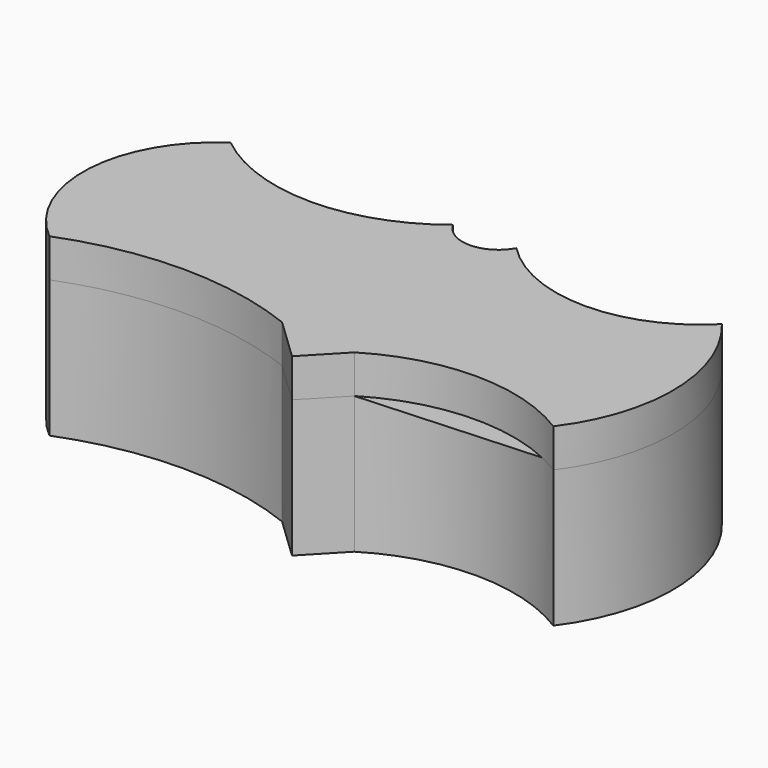
from build123d import *

# Parameters (mm, degrees)
F1_DEPTH = 25
F2_DEPTH = 7


with BuildPart() as f1:
    # F0 (on Top) → F1 (new body)
    with BuildSketch(Plane.XY):
        with BuildLine():
            ThreePointArc((6.184438, -19.112532), (24.385921, -13.995086), (42.558011, -19.215945))
            ThreePointArc((42.558011, -19.215945), (48.955837, 0.753002), (41.614898, 20.394836))
            ThreePointArc((41.614898, 20.394836), (22.87051, 12.572129), (4.126123, 20.394836))
            ThreePointArc((4.126123, 20.394836), (-1.650449, 16.982367), (-7.427021, 20.394836))
            ThreePointArc((-7.427021, 20.394836), (-27.703968, 13.278503), (-47.980916, 20.394836))
            ThreePointArc((-47.980916, 20.394836), (-58.728736, 1.592597), (-50.102923, -18.27283))
            ThreePointArc((-50.102923, -18.27283), (-28.882861, -14.264119), (-7.662799, -18.27283))
            Line((-7.662799, -18.27283), (0, -25.58952))
            Line((0, -25.58952), (6.184438, -19.112532))
        make_face()
    extrude(amount=F1_DEPTH)

    # F1_face (on face) → F2 (join)
    with BuildSketch(Plane(origin=(-4.720832, -0.378182, 25), x_dir=(1, 0, 0), z_dir=(0, 0, 1))):
        with BuildLine():
            ThreePointArc((10.90527, -18.73435), (29.106752, -13.616903), (47.278842, -18.837763))
            ThreePointArc((47.278842, -18.837763), (53.676669, 1.131184), (46.335729, 20.773018))
            ThreePointArc((46.335729, 20.773018), (27.591342, 12.950311), (8.846954, 20.773018))
            ThreePointArc((8.846954, 20.773018), (3.070383, 17.360549), (-2.706189, 20.773018))
            ThreePointArc((-2.706189, 20.773018), (-22.983137, 13.656685), (-43.260084, 20.773018))
            ThreePointArc((-43.260084, 20.773018), (-54.007904, 1.970779), (-45.382091, -17.894648))
            ThreePointArc((-45.382091, -17.894648), (-24.162029, -13.885936), (-2.941968, -17.894648))
            Line((-2.941968, -17.894648), (4.720832, -25.211337))
            Line((4.720832, -25.211337), (10.90527, -18.73435))
        make_face()
    extrude(amount=F2_DEPTH)


solid = f1.part
